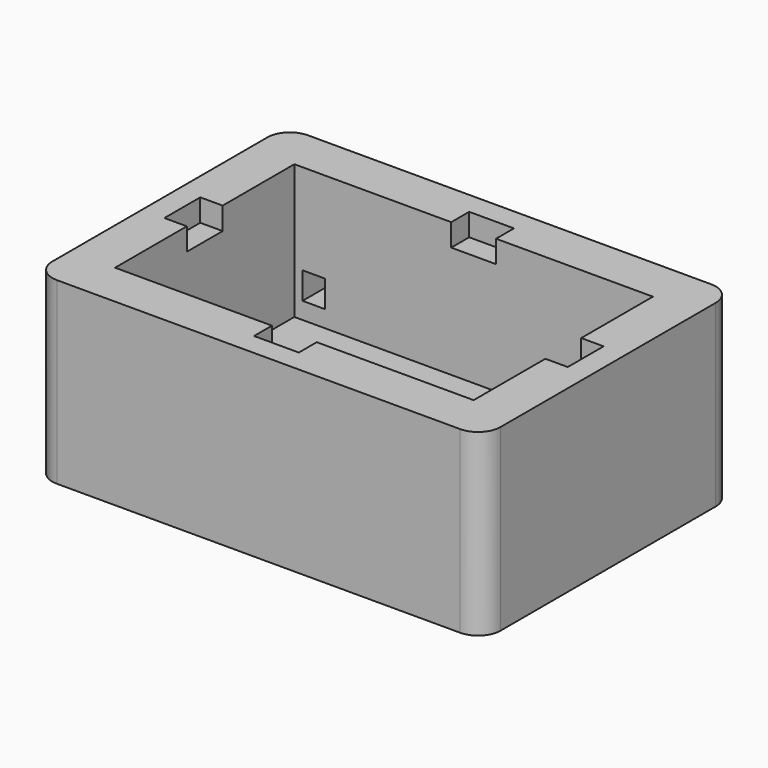
from build123d import *

# Parameters (mm, degrees)
F1_DEPTH  = 40
F2_T      = -10
F3_W      = 10
F3_H      = 4.0589590073
F4_DEPTH  = 10
F5_W      = 10
F5_H      = 5.6341049075
F6_DEPTH  = 20
F7_W      = 10
F7_H      = 5
F7_W_2    = 5
F7_H_2    = 10
F8_DEPTH  = 5
F9_W      = 5
F9_H      = 6
F10_DEPTH = 10


with BuildPart() as f1:
    # F0 (on Top) → F1 (new body)
    with BuildSketch(Plane.XY):
        with BuildLine():
            Line((45, 35), (-45, 35))
            ThreePointArc((-45, 35), (-48.5355339059, 33.5355339059), (-50, 30))
            Line((-50, 30), (-50, -30))
            ThreePointArc((-50, -30), (-48.5355339059, -33.5355339059), (-45, -35))
            Line((-45, -35), (45, -35))
            ThreePointArc((45, -35), (48.5355339059, -33.5355339059), (50, -30))
            Line((50, -30), (50, 30))
            ThreePointArc((50, 30), (48.5355339059, 33.5355339059), (45, 35))
        make_face()
    extrude(amount=F1_DEPTH)

    # F2
    f2_openings = [f1.faces().sort_by_distance(p)[0] for p in [
        (0, 0, 40),
    ]]
    offset(amount=F2_T, openings=f2_openings)

    # F7 (on face) → F8 (cut)
    with BuildSketch(Plane.XY.offset(40)):
        with Locations((0, 27.5)):
            Rectangle(F7_W, F7_H)
        with Locations((-42.5, 0)):
            Rectangle(F7_W_2, F7_H_2)
        with Locations((42.5, 0)):
            Rectangle(F7_W_2, F7_H_2)
        with Locations((0, -27.5)):
            Rectangle(F7_W, F7_H)
    extrude(amount=-F8_DEPTH, mode=Mode.SUBTRACT)

    # F9 (on face) → F10 (cut)
    with BuildSketch(Plane(origin=(0, 35, 0), x_dir=(-1, 0, 0), z_dir=(0, 1, 0))):
        with Locations((35.6704313308, 16.7554157438)):
            Rectangle(F9_W, F9_H)
    extrude(amount=-F10_DEPTH, mode=Mode.SUBTRACT)


with BuildPart() as f4:
    # F3 (on face) → F4 (new body)
    with BuildSketch(Plane(origin=(0, 35, 0), x_dir=(-1, 0, 0), z_dir=(0, 1, 0))):
        with Locations((-0.4221891332, 2.0294795036)):
            Rectangle(F3_W, F3_H)
    extrude(amount=F4_DEPTH)

    # F5 (on face) → F6 (join)
    with BuildSketch(Plane.XY.offset(4.0589590073)):
        with Locations((0.4221891332, 42.1829475462)):
            Rectangle(F5_W, F5_H)
    extrude(amount=F6_DEPTH)


solid = Compound([f1.part, f4.part])
